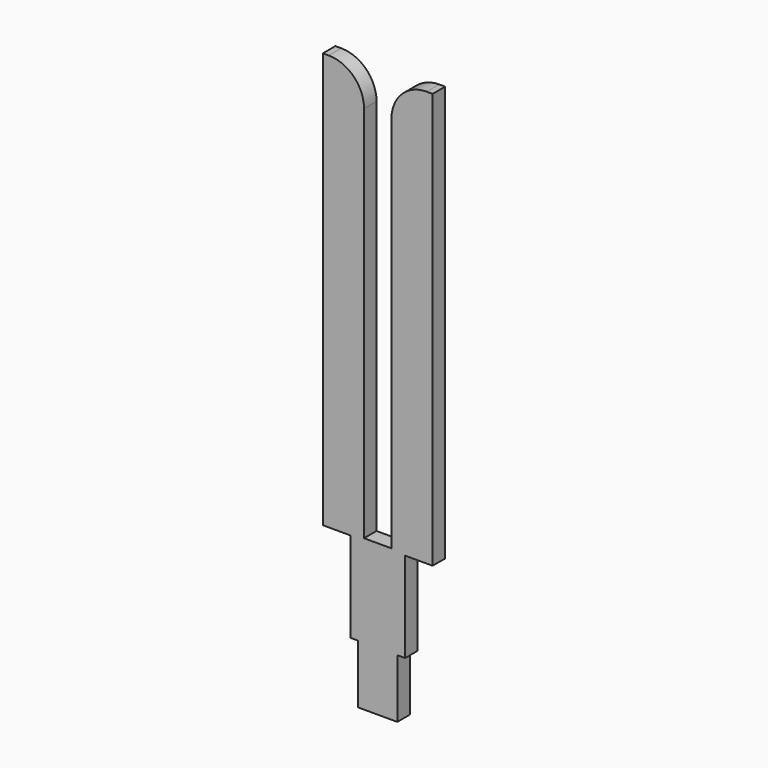
from build123d import *

# Parameters (mm, degrees)
BOX017_W     = 2.8
BOX017_H     = 0.4
BOX017_DEPTH = 14.4
BOX018_W     = 0.7
BOX018_H     = 0.4
BOX018_DEPTH = 10.55
BOX019_W     = 0.7
BOX019_H     = 0.4
BOX019_DEPTH = 3.8
BOX020_W     = 0.7
BOX020_H     = 0.4
BOX020_DEPTH = 3.8
BOX021_W     = 0.2
BOX021_H     = 0.4
BOX021_DEPTH = 1.5
BOX022_W     = 0.2
BOX022_H     = 0.4
BOX022_DEPTH = 1.5
FILLET003_R  = 0.9


with BuildPart() as part:
    # Box017 → Box017 (join)
    with BuildSketch(Plane(origin=(-20.85, -2.74, -1.5), x_dir=(1, 0, 0), z_dir=(0, 0, 1))):
        with Locations((1.4, 0.2)):
            Rectangle(BOX017_W, BOX017_H)
    extrude(amount=BOX017_DEPTH)

    # Box018 → Box018 (cut)
    with BuildSketch(Plane(origin=(-19.8, -2.74, 2.35), x_dir=(1, 0, 0), z_dir=(0, 0, 1))):
        with Locations((0.35, 0.2)):
            Rectangle(BOX018_W, BOX018_H)
    extrude(amount=BOX018_DEPTH, mode=Mode.SUBTRACT)

    # Box019 → Box019 (cut)
    with BuildSketch(Plane(origin=(-20.85, -2.74, -1.5), x_dir=(1, 0, 0), z_dir=(0, 0, 1))):
        with Locations((0.35, 0.2)):
            Rectangle(BOX019_W, BOX019_H)
    extrude(amount=BOX019_DEPTH, mode=Mode.SUBTRACT)

    # Box020 → Box020 (cut)
    with BuildSketch(Plane(origin=(-18.75, -2.74, -1.5), x_dir=(1, 0, 0), z_dir=(0, 0, 1))):
        with Locations((0.35, 0.2)):
            Rectangle(BOX020_W, BOX020_H)
    extrude(amount=BOX020_DEPTH, mode=Mode.SUBTRACT)

    # Box021 → Box021 (cut)
    with BuildSketch(Plane(origin=(-20.15, -2.74, -1.5), x_dir=(1, 0, 0), z_dir=(0, 0, 1))):
        with Locations((0.1, 0.2)):
            Rectangle(BOX021_W, BOX021_H)
    extrude(amount=BOX021_DEPTH, mode=Mode.SUBTRACT)

    # Box022 → Box022 (cut)
    with BuildSketch(Plane(origin=(-18.95, -2.74, -1.5), x_dir=(1, 0, 0), z_dir=(0, 0, 1))):
        with Locations((0.1, 0.2)):
            Rectangle(BOX022_W, BOX022_H)
    extrude(amount=BOX022_DEPTH, mode=Mode.SUBTRACT)

    # Fillet003
    fillet003_edges = [part.edges().sort_by_distance(p)[0] for p in [
        (-19.8, -2.54, 12.9),
        (-19.1, -2.54, 12.9),
    ]]
    fillet(fillet003_edges, radius=FILLET003_R)


with BuildPart() as part_1:
    # Body003 placement: moved
    add(part.part.moved(Location((2.38, 5.0875, 0))))


solid = part_1.part
